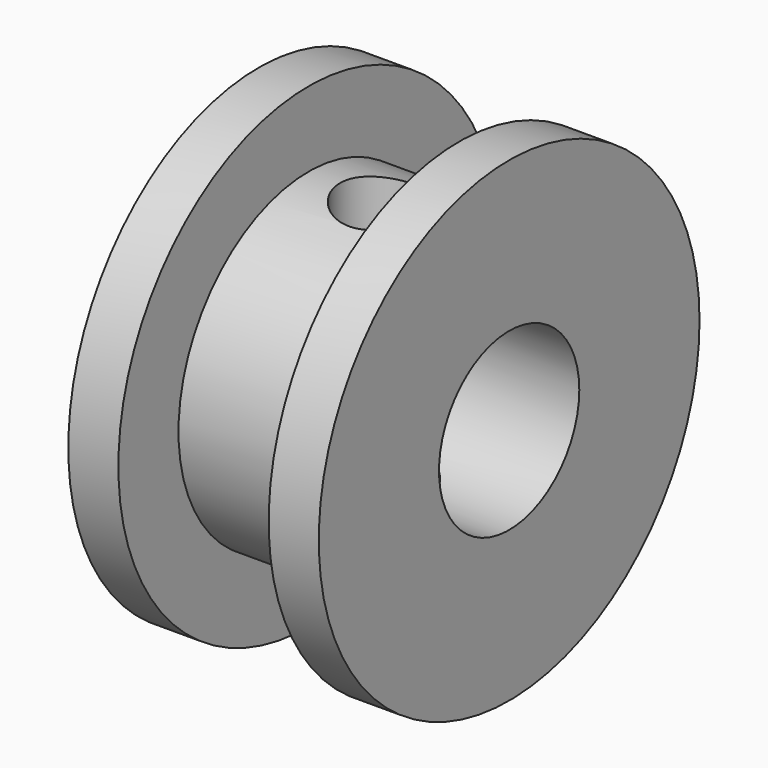
from build123d import *

# Parameters (mm, degrees)
F2_R          = 1.75
F3_DEPTH      = 9.501
F3_DEPTH_BACK = 9.501


with BuildPart() as f1:
    # F0 (on Top) → F1 (revolve)
    with BuildSketch(Plane.XY):
        Polygon((-5, 9.5), (-5, 3.5), (5, 3.5), (5, 9.5), (3, 9.5), (3, 6.5), (-3, 6.5), (-3, 9.5), align=None)
    revolve(axis=Axis((0, 0, 0), (1, 0, 0)))

    # F2 (on Top) → F3 (cut, two sides)
    with BuildSketch(Plane.XY) as f3_sk:
        Circle(F2_R)
    extrude(amount=F3_DEPTH, mode=Mode.SUBTRACT)
    extrude(f3_sk.sketch, amount=-F3_DEPTH_BACK, mode=Mode.SUBTRACT)


solid = f1.part
